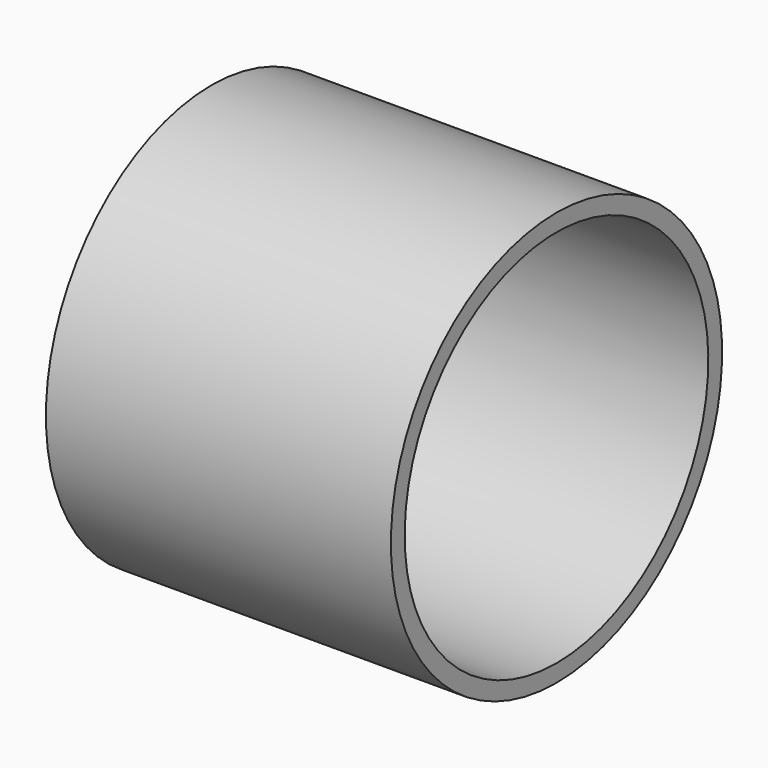
from build123d import *

# Parameters (mm, degrees)
CYLINDER034_R           = 5.5
CYLINDER034_DEPTH       = 10
CYLINDER034_PITCH_ANGLE = 90
CYLINDER_R              = 6
CYLINDER_DEPTH          = 10
CYLINDER_PITCH_ANGLE    = 90


with BuildPart() as cylinder034:
    # Cylinder034 → Cylinder034 (new body)
    with BuildSketch(Plane.XY):
        Circle(CYLINDER034_R)
    extrude(amount=CYLINDER034_DEPTH)


with BuildPart() as cylinder034_1:
    # Cylinder034 pitch: moved
    add(cylinder034.part.rotate(Axis((0, 0, 0), (0, 1, 0)), CYLINDER034_PITCH_ANGLE))


with BuildPart() as cylinder034_2:
    # Cylinder034 placement: moved
    add(cylinder034_1.part.moved(Location((3, 84, 11.5))))


with BuildPart() as cut059:
    # Cylinder → Cylinder (new body)
    with BuildSketch(Plane.XY):
        Circle(CYLINDER_R)
    extrude(amount=CYLINDER_DEPTH)


with BuildPart() as cut059_1:
    # Cylinder pitch: moved
    add(cut059.part.rotate(Axis((0, 0, 0), (0, 1, 0)), CYLINDER_PITCH_ANGLE))


with BuildPart() as cut059_2:
    # Cylinder placement: moved
    add(cut059_1.part.moved(Location((3, 84, 11.5))))

    # Cut059: cut Cylinder034
    add(cylinder034_2.part, mode=Mode.SUBTRACT)


solid = cut059_2.part
